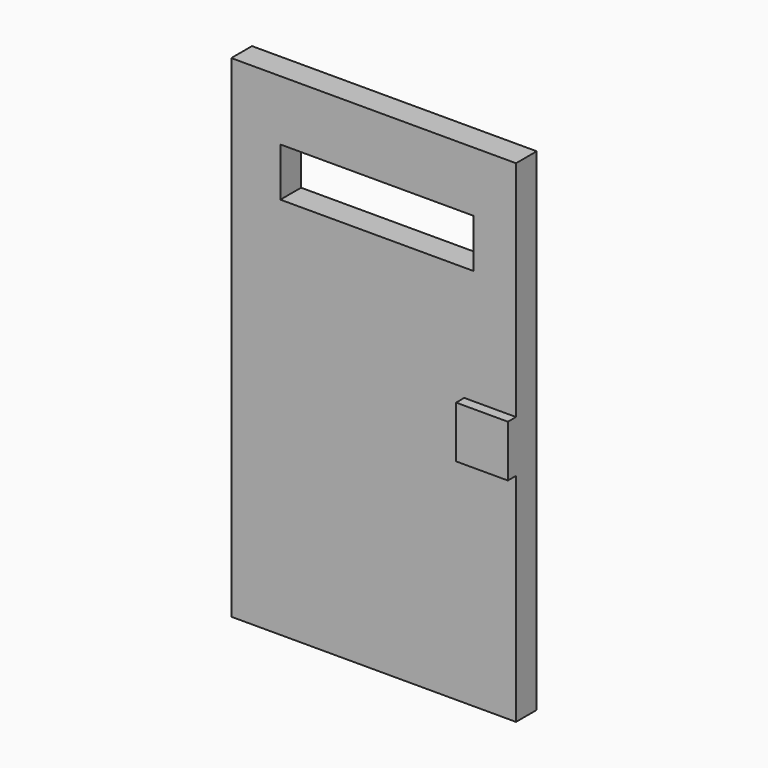
from build123d import *

# Parameters (mm, degrees)
F0_W     = 279.4
F0_H     = 482.6
F1_DEPTH = 25.4
F3_DEPTH = 10


with BuildPart() as f1:
    # F0 (on Front) → F1 (new body)
    with BuildSketch(Plane.XZ):
        Rectangle(F0_W, F0_H)
        Polygon((-91.511846, 158.487543), (-91.511846, 182.334796), (98.073885, 182.334796), (98.073885, 158.487543), (98.073885, 134.640291), (-91.511846, 134.640291), align=None, mode=Mode.SUBTRACT)
    extrude(amount=F1_DEPTH)

    # F2 (on face) → F3 (join)
    with BuildSketch(Plane.XZ.offset(25.4)):
        with BuildLine():
            ThreePointArc((114.3, -28.713468), (96.339488, -21.273981), (88.9, -3.313468))
            Line((88.9, -3.313468), (88.9, -28.713468))
            Line((88.9, -28.713468), (114.3, -28.713468))
        make_face()
        with BuildLine():
            Line((139.7, -28.713468), (139.7, -3.313468))
            ThreePointArc((139.7, -3.313468), (132.260512, -21.273981), (114.3, -28.713468))
            Line((114.3, -28.713468), (139.7, -28.713468))
        make_face()
        with BuildLine():
            ThreePointArc((88.9, -3.313468), (96.339488, 14.647044), (114.3, 22.086532))
            Line((114.3, 22.086532), (88.9, 22.086532))
            Line((88.9, 22.086532), (88.9, -3.313468))
        make_face()
        with BuildLine():
            ThreePointArc((139.7, -3.313468), (132.260512, 14.647044), (114.3, 22.086532))
            ThreePointArc((114.3, 22.086532), (96.339488, 14.647044), (88.9, -3.313468))
            ThreePointArc((88.9, -3.313468), (96.339488, -21.273981), (114.3, -28.713468))
            ThreePointArc((114.3, -28.713468), (132.260512, -21.273981), (139.7, -3.313468))
        make_face()
        with BuildLine():
            Line((139.7, -3.313468), (139.7, 22.086532))
            Line((139.7, 22.086532), (114.3, 22.086532))
            ThreePointArc((114.3, 22.086532), (132.260512, 14.647044), (139.7, -3.313468))
        make_face()
    extrude(amount=F3_DEPTH)


solid = f1.part
